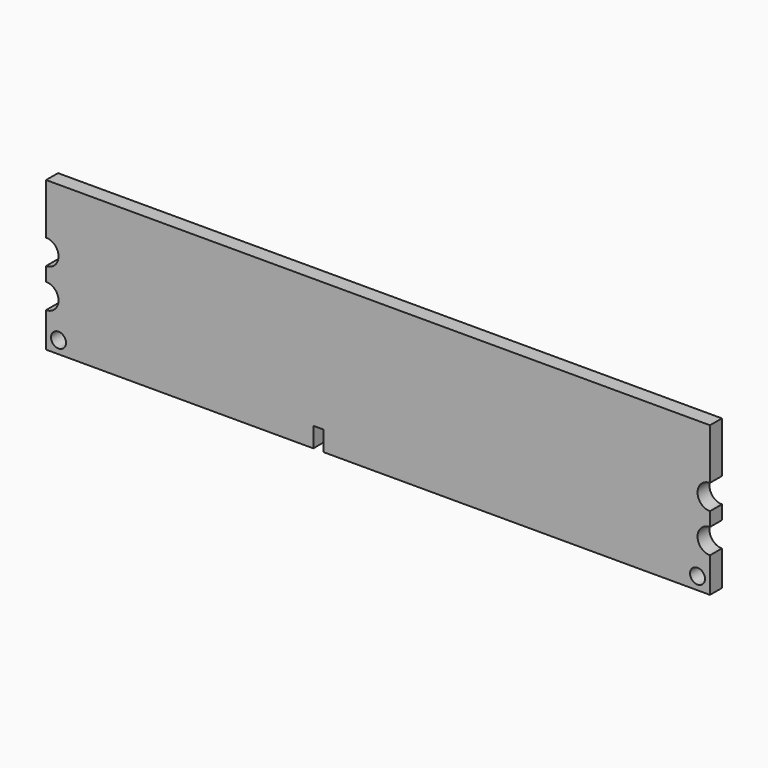
from build123d import *

# Parameters (mm, degrees)
F0_R     = 1.5
F1_DEPTH = 3


with BuildPart() as f1:
    # F0 (on Front) → F1 (new body)
    with BuildSketch(Plane.XZ):
        with BuildLine():
            Line((-10.995, -15), (66.675, -15))
            Line((66.675, -15), (66.675, -8))
            ThreePointArc((66.675, -8), (64.175, -5.5), (66.675, -3))
            Line((66.675, -3), (66.675, -0.2))
            ThreePointArc((66.675, -0.2), (64.175, 2.3), (66.675, 4.8))
            Line((66.675, 4.8), (66.675, 15))
            Line((66.675, 15), (-66.675, 15))
            Line((-66.675, 15), (-66.675, 4.8))
            ThreePointArc((-66.675, 4.8), (-64.175, 2.3), (-66.675, -0.2))
            Line((-66.675, -0.2), (-66.675, -3))
            ThreePointArc((-66.675, -3), (-64.175, -5.5), (-66.675, -8))
            Line((-66.675, -8), (-66.675, -15))
            Line((-66.675, -15), (-12.995, -15))
            Line((-12.995, -15), (-12.995, -11))
            Line((-12.995, -11), (-10.995, -11))
            Line((-10.995, -11), (-10.995, -15))
        make_face()
        with Locations((-64.175, -12.5)):
            Circle(F0_R, mode=Mode.SUBTRACT)
        with Locations((64.175, -12.5)):
            Circle(F0_R, mode=Mode.SUBTRACT)
    extrude(amount=F1_DEPTH)


solid = f1.part
